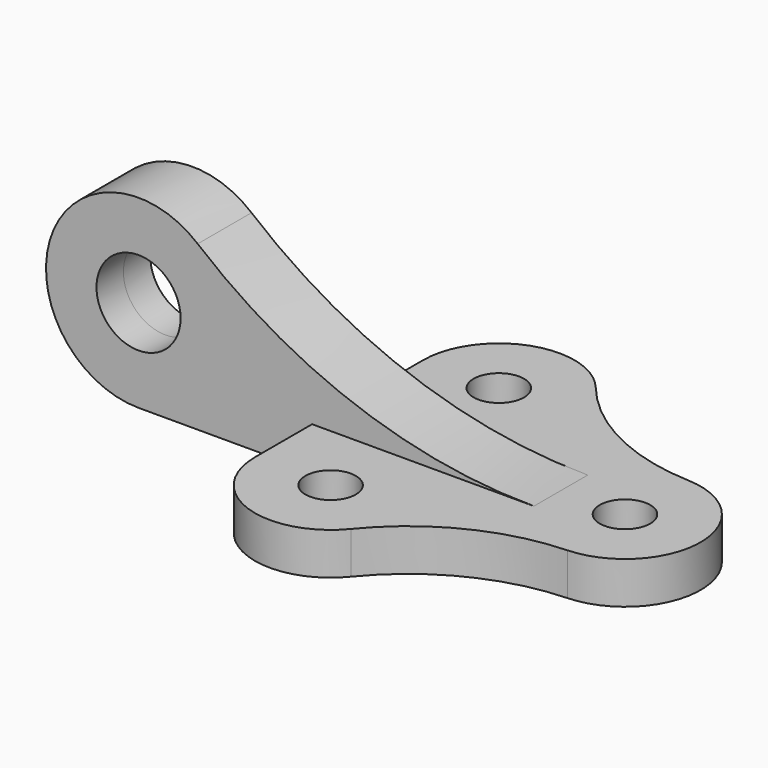
from build123d import *

# Parameters (mm, degrees)
F0_R          = 6
F1_DEPTH      = 10
F2_R          = 10
F3_DEPTH      = 8
F3_DEPTH_BACK = 8


with BuildPart() as f1:
    # F0 (on Top) → F1 (new body)
    with BuildSketch(Plane.XY):
        with BuildLine():
            ThreePointArc((-36.043982, -36.367918), (-19.637945, -23.224109), (0.720724, -17.985565))
            ThreePointArc((0.720724, -17.985565), (18, 0), (0.720724, 17.985565))
            ThreePointArc((0.720724, 17.985565), (-19.637945, 23.224109), (-36.043982, 36.367918))
            ThreePointArc((-36.043982, 36.367918), (-56.032896, 41.958896), (-68, 25))
            Line((-68, 25), (-68, -25))
            ThreePointArc((-68, -25), (-56.032896, -41.958896), (-36.043982, -36.367918))
        make_face()
        with Locations((-50, -25)):
            Circle(F0_R, mode=Mode.SUBTRACT)
        Circle(F0_R, mode=Mode.SUBTRACT)
        with Locations((-50, 25)):
            Circle(F0_R, mode=Mode.SUBTRACT)
    extrude(amount=F1_DEPTH)

    # F2 (on Front) → F3 (join, two sides)
    with BuildSketch(Plane.XZ) as f3_sk:
        with BuildLine():
            Line((-15.258002, 0), (-15.258002, 10))
            ThreePointArc((-15.258002, 10), (-57.766505, 17.449895), (-95.208065, 38.911565))
            ThreePointArc((-95.208065, 38.911565), (-129.968095, 29.481496), (-109.279276, 0))
            Line((-109.279276, 0), (-15.258002, 0))
        make_face()
        with Locations((-109.279276, 22)):
            Circle(F2_R, mode=Mode.SUBTRACT)
    extrude(amount=F3_DEPTH)
    extrude(f3_sk.sketch, amount=-F3_DEPTH_BACK)


solid = f1.part
